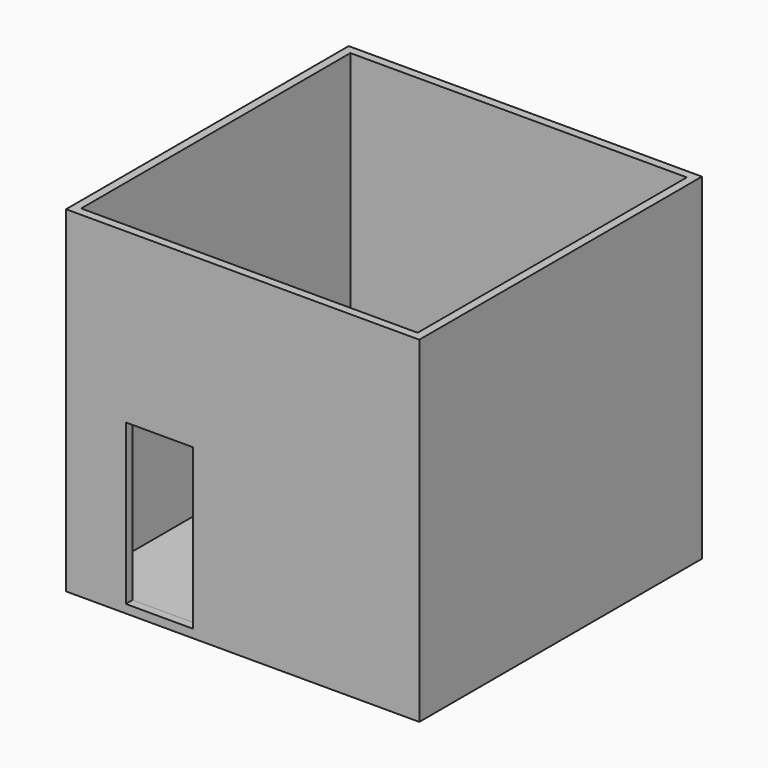
from build123d import *

# Parameters (mm, degrees)
F0_W     = 4200
F0_H     = 4200
F0_W_2   = 4000
F0_H_2   = 4000
F1_DEPTH = 4000
F2_DEPTH = 100
F3_W     = 800
F3_H     = 1900
F4_DEPTH = 100


with BuildPart() as f1:
    # F0 (on Top) → F1 (new body)
    with BuildSketch(Plane.XY):
        with Locations((-3029.274268, 2000)):
            Rectangle(F0_W, F0_H)
        with Locations((-3029.274268, 2000)):
            Rectangle(F0_W_2, F0_H_2, mode=Mode.SUBTRACT)
    extrude(amount=F1_DEPTH)

    # F3 (on face) → F4 (cut)
    with BuildSketch(Plane.XZ.offset(100)):
        with Locations((-4019.199653, 1050)):
            Rectangle(F3_W, F3_H)
    extrude(amount=-F4_DEPTH, mode=Mode.SUBTRACT)


with BuildPart() as f2:
    # F0 (on Top) → F2 (new body)
    with BuildSketch(Plane.XY):
        with Locations((-3029.274268, 2000)):
            Rectangle(F0_W_2, F0_H_2)
    extrude(amount=F2_DEPTH)


solid = Compound([f1.part, f2.part])
